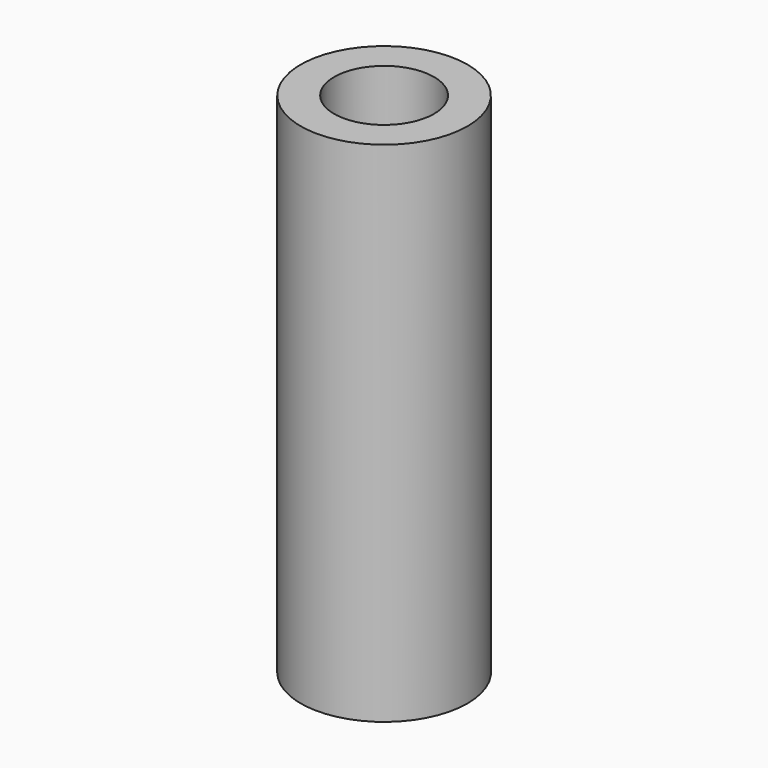
from build123d import *

# Parameters (mm, degrees)
F0_R     = 20.853702
F1_DEPTH = 127
F2_R     = 9.377492
F3_DEPTH = 127
F4_R     = 12.486205
F5_DEPTH = 127


with BuildPart() as f1:
    # F0 (on Top) → F1 (new body)
    with BuildSketch(Plane.XY):
        Circle(F0_R)
    extrude(amount=F1_DEPTH)

    # F2 (on Top) → F3 (cut)
    with BuildSketch(Plane.XY):
        Circle(F2_R)
    extrude(amount=-F3_DEPTH, mode=Mode.SUBTRACT)

    # F4 (on face) → F5 (cut)
    with BuildSketch(Plane.XY.offset(127)):
        Circle(F4_R)
    extrude(amount=-F5_DEPTH, mode=Mode.SUBTRACT)


solid = f1.part
